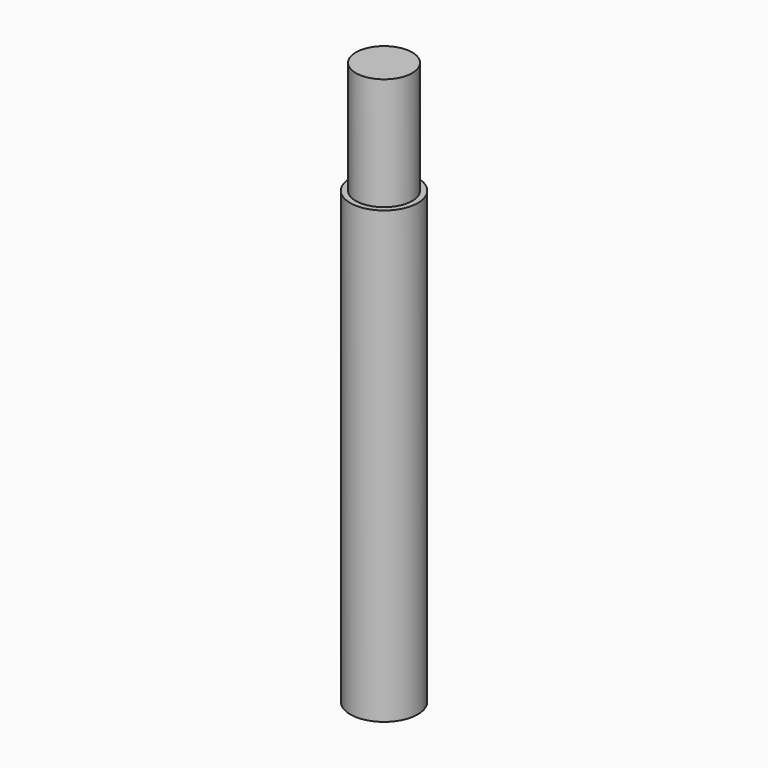
from build123d import *

# Parameters (mm, degrees)
CYLINDER094_R     = 3.75
CYLINDER094_DEPTH = 75
CYLINDER095_R     = 4.5
CYLINDER095_DEPTH = 60


with BuildPart() as refmodules:
    # Cylinder094 → Cylinder094 (new body)
    with BuildSketch(Plane(origin=(0, -207, 37), x_dir=(1, 0, 0), z_dir=(0, 0, 1))):
        Circle(CYLINDER094_R)
    extrude(amount=CYLINDER094_DEPTH)


with BuildPart() as refmodule:
    # Cylinder095 → Cylinder095 (new body)
    with BuildSketch(Plane(origin=(0, -207, 37), x_dir=(1, 0, 0), z_dir=(0, 0, 1))):
        Circle(CYLINDER095_R)
    extrude(amount=CYLINDER095_DEPTH)

    # Fusion051: union refModules
    add(refmodules.part)


solid = refmodule.part
